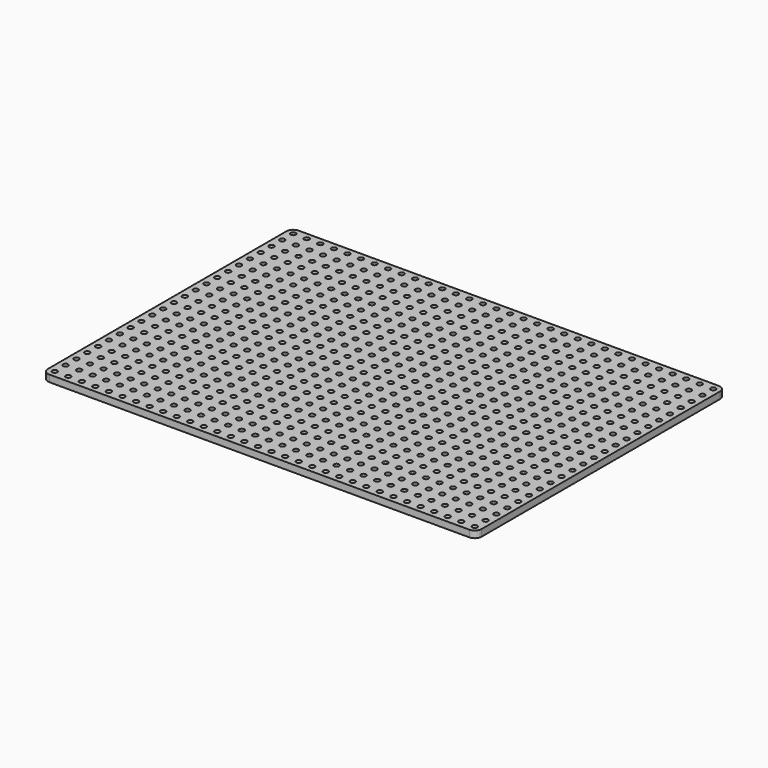
from build123d import *

# Parameters (mm, degrees)
F1_DEPTH = 3.175
F2_R     = 1.1938
F3_DEPTH = 3.176


with BuildPart() as f1:
    # F0 (on Top) → F1 (new body)
    with BuildSketch(Plane.XY):
        with BuildLine():
            ThreePointArc((0, 3.175), (0.929936, 0.929936), (3.175, 0))
            Line((3.175, 0), (200.025, 0))
            ThreePointArc((200.025, 0), (202.270064, 0.929936), (203.2, 3.175))
            Line((203.2, 3.175), (203.2, 142.875))
            ThreePointArc((203.2, 142.875), (202.270064, 145.120064), (200.025, 146.05))
            Line((200.025, 146.05), (3.175, 146.05))
            ThreePointArc((3.175, 146.05), (0.929936, 145.120064), (0, 142.875))
            Line((0, 142.875), (0, 3.175))
        make_face()
    extrude(amount=F1_DEPTH)

    # F2 (on face) → F3 (cut, through all)
    with BuildSketch(Plane.XY.offset(3.175)):
        with Locations((3.175, 3.175)):
            Circle(F2_R)
        with Locations((3.175, 9.525)):
            Circle(F2_R)
        with Locations((3.175, 15.875)):
            Circle(F2_R)
        with Locations((3.175, 22.225)):
            Circle(F2_R)
        with Locations((3.175, 28.575)):
            Circle(F2_R)
        with Locations((3.175, 34.925)):
            Circle(F2_R)
        with Locations((3.175, 41.275)):
            Circle(F2_R)
        with Locations((3.175, 47.625)):
            Circle(F2_R)
        with Locations((3.175, 53.975)):
            Circle(F2_R)
        with Locations((3.175, 60.325)):
            Circle(F2_R)
        with Locations((3.175, 66.675)):
            Circle(F2_R)
        with Locations((3.175, 73.025)):
            Circle(F2_R)
        with Locations((3.175, 79.375)):
            Circle(F2_R)
        with Locations((3.175, 85.725)):
            Circle(F2_R)
        with Locations((3.175, 92.075)):
            Circle(F2_R)
        with Locations((3.175, 98.425)):
            Circle(F2_R)
        with Locations((3.175, 104.775)):
            Circle(F2_R)
        with Locations((3.175, 111.125)):
            Circle(F2_R)
        with Locations((3.175, 117.475)):
            Circle(F2_R)
        with Locations((3.175, 123.825)):
            Circle(F2_R)
        with Locations((3.175, 130.175)):
            Circle(F2_R)
        with Locations((3.175, 136.525)):
            Circle(F2_R)
        with Locations((3.175, 142.875)):
            Circle(F2_R)
        with Locations((9.525, 3.175)):
            Circle(F2_R)
        with Locations((9.525, 9.525)):
            Circle(F2_R)
        with Locations((9.525, 15.875)):
            Circle(F2_R)
        with Locations((9.525, 22.225)):
            Circle(F2_R)
        with Locations((9.525, 28.575)):
            Circle(F2_R)
        with Locations((9.525, 34.925)):
            Circle(F2_R)
        with Locations((9.525, 41.275)):
            Circle(F2_R)
        with Locations((9.525, 47.625)):
            Circle(F2_R)
        with Locations((9.525, 53.975)):
            Circle(F2_R)
        with Locations((9.525, 60.325)):
            Circle(F2_R)
        with Locations((9.525, 66.675)):
            Circle(F2_R)
        with Locations((9.525, 73.025)):
            Circle(F2_R)
        with Locations((9.525, 79.375)):
            Circle(F2_R)
        with Locations((9.525, 85.725)):
            Circle(F2_R)
        with Locations((9.525, 92.075)):
            Circle(F2_R)
        with Locations((9.525, 98.425)):
            Circle(F2_R)
        with Locations((9.525, 104.775)):
            Circle(F2_R)
        with Locations((9.525, 111.125)):
            Circle(F2_R)
        with Locations((9.525, 117.475)):
            Circle(F2_R)
        with Locations((9.525, 123.825)):
            Circle(F2_R)
        with Locations((9.525, 130.175)):
            Circle(F2_R)
        with Locations((9.525, 136.525)):
            Circle(F2_R)
        with Locations((9.525, 142.875)):
            Circle(F2_R)
        with Locations((15.875, 3.175)):
            Circle(F2_R)
        with Locations((15.875, 9.525)):
            Circle(F2_R)
        with Locations((15.875, 15.875)):
            Circle(F2_R)
        with Locations((15.875, 22.225)):
            Circle(F2_R)
        with Locations((15.875, 28.575)):
            Circle(F2_R)
        with Locations((15.875, 34.925)):
            Circle(F2_R)
        with Locations((15.875, 41.275)):
            Circle(F2_R)
        with Locations((15.875, 47.625)):
            Circle(F2_R)
        with Locations((15.875, 53.975)):
            Circle(F2_R)
        with Locations((15.875, 60.325)):
            Circle(F2_R)
        with Locations((15.875, 66.675)):
            Circle(F2_R)
        with Locations((15.875, 73.025)):
            Circle(F2_R)
        with Locations((15.875, 79.375)):
            Circle(F2_R)
        with Locations((15.875, 85.725)):
            Circle(F2_R)
        with Locations((15.875, 92.075)):
            Circle(F2_R)
        with Locations((15.875, 98.425)):
            Circle(F2_R)
        with Locations((15.875, 104.775)):
            Circle(F2_R)
        with Locations((15.875, 111.125)):
            Circle(F2_R)
        with Locations((15.875, 117.475)):
            Circle(F2_R)
        with Locations((15.875, 123.825)):
            Circle(F2_R)
        with Locations((15.875, 130.175)):
            Circle(F2_R)
        with Locations((15.875, 136.525)):
            Circle(F2_R)
        with Locations((15.875, 142.875)):
            Circle(F2_R)
        with Locations((22.225, 3.175)):
            Circle(F2_R)
        with Locations((22.225, 9.525)):
            Circle(F2_R)
        with Locations((22.225, 15.875)):
            Circle(F2_R)
        with Locations((22.225, 22.225)):
            Circle(F2_R)
        with Locations((22.225, 28.575)):
            Circle(F2_R)
        with Locations((22.225, 34.925)):
            Circle(F2_R)
        with Locations((22.225, 41.275)):
            Circle(F2_R)
        with Locations((22.225, 47.625)):
            Circle(F2_R)
        with Locations((22.225, 53.975)):
            Circle(F2_R)
        with Locations((22.225, 60.325)):
            Circle(F2_R)
        with Locations((22.225, 66.675)):
            Circle(F2_R)
        with Locations((22.225, 73.025)):
            Circle(F2_R)
        with Locations((22.225, 79.375)):
            Circle(F2_R)
        with Locations((22.225, 85.725)):
            Circle(F2_R)
        with Locations((22.225, 92.075)):
            Circle(F2_R)
        with Locations((22.225, 98.425)):
            Circle(F2_R)
        with Locations((22.225, 104.775)):
            Circle(F2_R)
        with Locations((22.225, 111.125)):
            Circle(F2_R)
        with Locations((22.225, 117.475)):
            Circle(F2_R)
        with Locations((22.225, 123.825)):
            Circle(F2_R)
        with Locations((22.225, 130.175)):
            Circle(F2_R)
        with Locations((22.225, 136.525)):
            Circle(F2_R)
        with Locations((22.225, 142.875)):
            Circle(F2_R)
        with Locations((28.575, 3.175)):
            Circle(F2_R)
        with Locations((28.575, 9.525)):
            Circle(F2_R)
        with Locations((28.575, 15.875)):
            Circle(F2_R)
        with Locations((28.575, 22.225)):
            Circle(F2_R)
        with Locations((28.575, 28.575)):
            Circle(F2_R)
        with Locations((28.575, 34.925)):
            Circle(F2_R)
        with Locations((28.575, 41.275)):
            Circle(F2_R)
        with Locations((28.575, 47.625)):
            Circle(F2_R)
        with Locations((28.575, 53.975)):
            Circle(F2_R)
        with Locations((28.575, 60.325)):
            Circle(F2_R)
        with Locations((28.575, 66.675)):
            Circle(F2_R)
        with Locations((28.575, 73.025)):
            Circle(F2_R)
        with Locations((28.575, 79.375)):
            Circle(F2_R)
        with Locations((28.575, 85.725)):
            Circle(F2_R)
        with Locations((28.575, 92.075)):
            Circle(F2_R)
        with Locations((28.575, 98.425)):
            Circle(F2_R)
        with Locations((28.575, 104.775)):
            Circle(F2_R)
        with Locations((28.575, 111.125)):
            Circle(F2_R)
        with Locations((28.575, 117.475)):
            Circle(F2_R)
        with Locations((28.575, 123.825)):
            Circle(F2_R)
        with Locations((28.575, 130.175)):
            Circle(F2_R)
        with Locations((28.575, 136.525)):
            Circle(F2_R)
        with Locations((28.575, 142.875)):
            Circle(F2_R)
        with Locations((34.925, 3.175)):
            Circle(F2_R)
        with Locations((34.925, 9.525)):
            Circle(F2_R)
        with Locations((34.925, 15.875)):
            Circle(F2_R)
        with Locations((34.925, 22.225)):
            Circle(F2_R)
        with Locations((34.925, 28.575)):
            Circle(F2_R)
        with Locations((34.925, 34.925)):
            Circle(F2_R)
        with Locations((34.925, 41.275)):
            Circle(F2_R)
        with Locations((34.925, 47.625)):
            Circle(F2_R)
        with Locations((34.925, 53.975)):
            Circle(F2_R)
        with Locations((34.925, 60.325)):
            Circle(F2_R)
        with Locations((34.925, 66.675)):
            Circle(F2_R)
        with Locations((34.925, 73.025)):
            Circle(F2_R)
        with Locations((34.925, 79.375)):
            Circle(F2_R)
        with Locations((34.925, 85.725)):
            Circle(F2_R)
        with Locations((34.925, 92.075)):
            Circle(F2_R)
        with Locations((34.925, 98.425)):
            Circle(F2_R)
        with Locations((34.925, 104.775)):
            Circle(F2_R)
        with Locations((34.925, 111.125)):
            Circle(F2_R)
        with Locations((34.925, 117.475)):
            Circle(F2_R)
        with Locations((34.925, 123.825)):
            Circle(F2_R)
        with Locations((34.925, 130.175)):
            Circle(F2_R)
        with Locations((34.925, 136.525)):
            Circle(F2_R)
        with Locations((34.925, 142.875)):
            Circle(F2_R)
        with Locations((41.275, 3.175)):
            Circle(F2_R)
        with Locations((41.275, 9.525)):
            Circle(F2_R)
        with Locations((41.275, 15.875)):
            Circle(F2_R)
        with Locations((41.275, 22.225)):
            Circle(F2_R)
        with Locations((41.275, 28.575)):
            Circle(F2_R)
        with Locations((41.275, 34.925)):
            Circle(F2_R)
        with Locations((41.275, 41.275)):
            Circle(F2_R)
        with Locations((41.275, 47.625)):
            Circle(F2_R)
        with Locations((41.275, 53.975)):
            Circle(F2_R)
        with Locations((41.275, 60.325)):
            Circle(F2_R)
        with Locations((41.275, 66.675)):
            Circle(F2_R)
        with Locations((41.275, 73.025)):
            Circle(F2_R)
        with Locations((41.275, 79.375)):
            Circle(F2_R)
        with Locations((41.275, 85.725)):
            Circle(F2_R)
        with Locations((41.275, 92.075)):
            Circle(F2_R)
        with Locations((41.275, 98.425)):
            Circle(F2_R)
        with Locations((41.275, 104.775)):
            Circle(F2_R)
        with Locations((41.275, 111.125)):
            Circle(F2_R)
        with Locations((41.275, 117.475)):
            Circle(F2_R)
        with Locations((41.275, 123.825)):
            Circle(F2_R)
        with Locations((41.275, 130.175)):
            Circle(F2_R)
        with Locations((41.275, 136.525)):
            Circle(F2_R)
        with Locations((41.275, 142.875)):
            Circle(F2_R)
        with Locations((47.625, 3.175)):
            Circle(F2_R)
        with Locations((47.625, 9.525)):
            Circle(F2_R)
        with Locations((47.625, 15.875)):
            Circle(F2_R)
        with Locations((47.625, 22.225)):
            Circle(F2_R)
        with Locations((47.625, 28.575)):
            Circle(F2_R)
        with Locations((47.625, 34.925)):
            Circle(F2_R)
        with Locations((47.625, 41.275)):
            Circle(F2_R)
        with Locations((47.625, 47.625)):
            Circle(F2_R)
        with Locations((47.625, 53.975)):
            Circle(F2_R)
        with Locations((47.625, 60.325)):
            Circle(F2_R)
        with Locations((47.625, 66.675)):
            Circle(F2_R)
        with Locations((47.625, 73.025)):
            Circle(F2_R)
        with Locations((47.625, 79.375)):
            Circle(F2_R)
        with Locations((47.625, 85.725)):
            Circle(F2_R)
        with Locations((47.625, 92.075)):
            Circle(F2_R)
        with Locations((47.625, 98.425)):
            Circle(F2_R)
        with Locations((47.625, 104.775)):
            Circle(F2_R)
        with Locations((47.625, 111.125)):
            Circle(F2_R)
        with Locations((47.625, 117.475)):
            Circle(F2_R)
        with Locations((47.625, 123.825)):
            Circle(F2_R)
        with Locations((47.625, 130.175)):
            Circle(F2_R)
        with Locations((47.625, 136.525)):
            Circle(F2_R)
        with Locations((47.625, 142.875)):
            Circle(F2_R)
        with Locations((53.975, 3.175)):
            Circle(F2_R)
        with Locations((53.975, 9.525)):
            Circle(F2_R)
        with Locations((53.975, 15.875)):
            Circle(F2_R)
        with Locations((53.975, 22.225)):
            Circle(F2_R)
        with Locations((53.975, 28.575)):
            Circle(F2_R)
        with Locations((53.975, 34.925)):
            Circle(F2_R)
        with Locations((53.975, 41.275)):
            Circle(F2_R)
        with Locations((53.975, 47.625)):
            Circle(F2_R)
        with Locations((53.975, 53.975)):
            Circle(F2_R)
        with Locations((53.975, 60.325)):
            Circle(F2_R)
        with Locations((53.975, 66.675)):
            Circle(F2_R)
        with Locations((53.975, 73.025)):
            Circle(F2_R)
        with Locations((53.975, 79.375)):
            Circle(F2_R)
        with Locations((53.975, 85.725)):
            Circle(F2_R)
        with Locations((53.975, 92.075)):
            Circle(F2_R)
        with Locations((53.975, 98.425)):
            Circle(F2_R)
        with Locations((53.975, 104.775)):
            Circle(F2_R)
        with Locations((53.975, 111.125)):
            Circle(F2_R)
        with Locations((53.975, 117.475)):
            Circle(F2_R)
        with Locations((53.975, 123.825)):
            Circle(F2_R)
        with Locations((53.975, 130.175)):
            Circle(F2_R)
        with Locations((53.975, 136.525)):
            Circle(F2_R)
        with Locations((53.975, 142.875)):
            Circle(F2_R)
        with Locations((60.325, 3.175)):
            Circle(F2_R)
        with Locations((60.325, 9.525)):
            Circle(F2_R)
        with Locations((60.325, 15.875)):
            Circle(F2_R)
        with Locations((60.325, 22.225)):
            Circle(F2_R)
        with Locations((60.325, 28.575)):
            Circle(F2_R)
        with Locations((60.325, 34.925)):
            Circle(F2_R)
        with Locations((60.325, 41.275)):
            Circle(F2_R)
        with Locations((60.325, 47.625)):
            Circle(F2_R)
        with Locations((60.325, 53.975)):
            Circle(F2_R)
        with Locations((60.325, 60.325)):
            Circle(F2_R)
        with Locations((60.325, 66.675)):
            Circle(F2_R)
        with Locations((60.325, 73.025)):
            Circle(F2_R)
        with Locations((60.325, 79.375)):
            Circle(F2_R)
        with Locations((60.325, 85.725)):
            Circle(F2_R)
        with Locations((60.325, 92.075)):
            Circle(F2_R)
        with Locations((60.325, 98.425)):
            Circle(F2_R)
        with Locations((60.325, 104.775)):
            Circle(F2_R)
        with Locations((60.325, 111.125)):
            Circle(F2_R)
        with Locations((60.325, 117.475)):
            Circle(F2_R)
        with Locations((60.325, 123.825)):
            Circle(F2_R)
        with Locations((60.325, 130.175)):
            Circle(F2_R)
        with Locations((60.325, 136.525)):
            Circle(F2_R)
        with Locations((60.325, 142.875)):
            Circle(F2_R)
        with Locations((66.675, 3.175)):
            Circle(F2_R)
        with Locations((66.675, 9.525)):
            Circle(F2_R)
        with Locations((66.675, 15.875)):
            Circle(F2_R)
        with Locations((66.675, 22.225)):
            Circle(F2_R)
        with Locations((66.675, 28.575)):
            Circle(F2_R)
        with Locations((66.675, 34.925)):
            Circle(F2_R)
        with Locations((66.675, 41.275)):
            Circle(F2_R)
        with Locations((66.675, 47.625)):
            Circle(F2_R)
        with Locations((66.675, 53.975)):
            Circle(F2_R)
        with Locations((66.675, 60.325)):
            Circle(F2_R)
        with Locations((66.675, 66.675)):
            Circle(F2_R)
        with Locations((66.675, 73.025)):
            Circle(F2_R)
        with Locations((66.675, 79.375)):
            Circle(F2_R)
        with Locations((66.675, 85.725)):
            Circle(F2_R)
        with Locations((66.675, 92.075)):
            Circle(F2_R)
        with Locations((66.675, 98.425)):
            Circle(F2_R)
        with Locations((66.675, 104.775)):
            Circle(F2_R)
        with Locations((66.675, 111.125)):
            Circle(F2_R)
        with Locations((66.675, 117.475)):
            Circle(F2_R)
        with Locations((66.675, 123.825)):
            Circle(F2_R)
        with Locations((66.675, 130.175)):
            Circle(F2_R)
        with Locations((66.675, 136.525)):
            Circle(F2_R)
        with Locations((66.675, 142.875)):
            Circle(F2_R)
        with Locations((73.025, 3.175)):
            Circle(F2_R)
        with Locations((73.025, 9.525)):
            Circle(F2_R)
        with Locations((73.025, 15.875)):
            Circle(F2_R)
        with Locations((73.025, 22.225)):
            Circle(F2_R)
        with Locations((73.025, 28.575)):
            Circle(F2_R)
        with Locations((73.025, 34.925)):
            Circle(F2_R)
        with Locations((73.025, 41.275)):
            Circle(F2_R)
        with Locations((73.025, 47.625)):
            Circle(F2_R)
        with Locations((73.025, 53.975)):
            Circle(F2_R)
        with Locations((73.025, 60.325)):
            Circle(F2_R)
        with Locations((73.025, 66.675)):
            Circle(F2_R)
        with Locations((73.025, 73.025)):
            Circle(F2_R)
        with Locations((73.025, 79.375)):
            Circle(F2_R)
        with Locations((73.025, 85.725)):
            Circle(F2_R)
        with Locations((73.025, 92.075)):
            Circle(F2_R)
        with Locations((73.025, 98.425)):
            Circle(F2_R)
        with Locations((73.025, 104.775)):
            Circle(F2_R)
        with Locations((73.025, 111.125)):
            Circle(F2_R)
        with Locations((73.025, 117.475)):
            Circle(F2_R)
        with Locations((73.025, 123.825)):
            Circle(F2_R)
        with Locations((73.025, 130.175)):
            Circle(F2_R)
        with Locations((73.025, 136.525)):
            Circle(F2_R)
        with Locations((73.025, 142.875)):
            Circle(F2_R)
        with Locations((79.375, 3.175)):
            Circle(F2_R)
        with Locations((79.375, 9.525)):
            Circle(F2_R)
        with Locations((79.375, 15.875)):
            Circle(F2_R)
        with Locations((79.375, 22.225)):
            Circle(F2_R)
        with Locations((79.375, 28.575)):
            Circle(F2_R)
        with Locations((79.375, 34.925)):
            Circle(F2_R)
        with Locations((79.375, 41.275)):
            Circle(F2_R)
        with Locations((79.375, 47.625)):
            Circle(F2_R)
        with Locations((79.375, 53.975)):
            Circle(F2_R)
        with Locations((79.375, 60.325)):
            Circle(F2_R)
        with Locations((79.375, 66.675)):
            Circle(F2_R)
        with Locations((79.375, 73.025)):
            Circle(F2_R)
        with Locations((79.375, 79.375)):
            Circle(F2_R)
        with Locations((79.375, 85.725)):
            Circle(F2_R)
        with Locations((79.375, 92.075)):
            Circle(F2_R)
        with Locations((79.375, 98.425)):
            Circle(F2_R)
        with Locations((79.375, 104.775)):
            Circle(F2_R)
        with Locations((79.375, 111.125)):
            Circle(F2_R)
        with Locations((79.375, 117.475)):
            Circle(F2_R)
        with Locations((79.375, 123.825)):
            Circle(F2_R)
        with Locations((79.375, 130.175)):
            Circle(F2_R)
        with Locations((79.375, 136.525)):
            Circle(F2_R)
        with Locations((79.375, 142.875)):
            Circle(F2_R)
        with Locations((85.725, 3.175)):
            Circle(F2_R)
        with Locations((85.725, 9.525)):
            Circle(F2_R)
        with Locations((85.725, 15.875)):
            Circle(F2_R)
        with Locations((85.725, 22.225)):
            Circle(F2_R)
        with Locations((85.725, 28.575)):
            Circle(F2_R)
        with Locations((85.725, 34.925)):
            Circle(F2_R)
        with Locations((85.725, 41.275)):
            Circle(F2_R)
        with Locations((85.725, 47.625)):
            Circle(F2_R)
        with Locations((85.725, 53.975)):
            Circle(F2_R)
        with Locations((85.725, 60.325)):
            Circle(F2_R)
        with Locations((85.725, 66.675)):
            Circle(F2_R)
        with Locations((85.725, 73.025)):
            Circle(F2_R)
        with Locations((85.725, 79.375)):
            Circle(F2_R)
        with Locations((85.725, 85.725)):
            Circle(F2_R)
        with Locations((85.725, 92.075)):
            Circle(F2_R)
        with Locations((85.725, 98.425)):
            Circle(F2_R)
        with Locations((85.725, 104.775)):
            Circle(F2_R)
        with Locations((85.725, 111.125)):
            Circle(F2_R)
        with Locations((85.725, 117.475)):
            Circle(F2_R)
        with Locations((85.725, 123.825)):
            Circle(F2_R)
        with Locations((85.725, 130.175)):
            Circle(F2_R)
        with Locations((85.725, 136.525)):
            Circle(F2_R)
        with Locations((85.725, 142.875)):
            Circle(F2_R)
        with Locations((92.075, 3.175)):
            Circle(F2_R)
        with Locations((92.075, 9.525)):
            Circle(F2_R)
        with Locations((92.075, 15.875)):
            Circle(F2_R)
        with Locations((92.075, 22.225)):
            Circle(F2_R)
        with Locations((92.075, 28.575)):
            Circle(F2_R)
        with Locations((92.075, 34.925)):
            Circle(F2_R)
        with Locations((92.075, 41.275)):
            Circle(F2_R)
        with Locations((92.075, 47.625)):
            Circle(F2_R)
        with Locations((92.075, 53.975)):
            Circle(F2_R)
        with Locations((92.075, 60.325)):
            Circle(F2_R)
        with Locations((92.075, 66.675)):
            Circle(F2_R)
        with Locations((92.075, 73.025)):
            Circle(F2_R)
        with Locations((92.075, 79.375)):
            Circle(F2_R)
        with Locations((92.075, 85.725)):
            Circle(F2_R)
        with Locations((92.075, 92.075)):
            Circle(F2_R)
        with Locations((92.075, 98.425)):
            Circle(F2_R)
        with Locations((92.075, 104.775)):
            Circle(F2_R)
        with Locations((92.075, 111.125)):
            Circle(F2_R)
        with Locations((92.075, 117.475)):
            Circle(F2_R)
        with Locations((92.075, 123.825)):
            Circle(F2_R)
        with Locations((92.075, 130.175)):
            Circle(F2_R)
        with Locations((92.075, 136.525)):
            Circle(F2_R)
        with Locations((92.075, 142.875)):
            Circle(F2_R)
        with Locations((98.425, 3.175)):
            Circle(F2_R)
        with Locations((98.425, 9.525)):
            Circle(F2_R)
        with Locations((98.425, 15.875)):
            Circle(F2_R)
        with Locations((98.425, 22.225)):
            Circle(F2_R)
        with Locations((98.425, 28.575)):
            Circle(F2_R)
        with Locations((98.425, 34.925)):
            Circle(F2_R)
        with Locations((98.425, 41.275)):
            Circle(F2_R)
        with Locations((98.425, 47.625)):
            Circle(F2_R)
        with Locations((98.425, 53.975)):
            Circle(F2_R)
        with Locations((98.425, 60.325)):
            Circle(F2_R)
        with Locations((98.425, 66.675)):
            Circle(F2_R)
        with Locations((98.425, 73.025)):
            Circle(F2_R)
        with Locations((98.425, 79.375)):
            Circle(F2_R)
        with Locations((98.425, 85.725)):
            Circle(F2_R)
        with Locations((98.425, 92.075)):
            Circle(F2_R)
        with Locations((98.425, 98.425)):
            Circle(F2_R)
        with Locations((98.425, 104.775)):
            Circle(F2_R)
        with Locations((98.425, 111.125)):
            Circle(F2_R)
        with Locations((98.425, 117.475)):
            Circle(F2_R)
        with Locations((98.425, 123.825)):
            Circle(F2_R)
        with Locations((98.425, 130.175)):
            Circle(F2_R)
        with Locations((98.425, 136.525)):
            Circle(F2_R)
        with Locations((98.425, 142.875)):
            Circle(F2_R)
        with Locations((104.775, 3.175)):
            Circle(F2_R)
        with Locations((104.775, 9.525)):
            Circle(F2_R)
        with Locations((104.775, 15.875)):
            Circle(F2_R)
        with Locations((104.775, 22.225)):
            Circle(F2_R)
        with Locations((104.775, 28.575)):
            Circle(F2_R)
        with Locations((104.775, 34.925)):
            Circle(F2_R)
        with Locations((104.775, 41.275)):
            Circle(F2_R)
        with Locations((104.775, 47.625)):
            Circle(F2_R)
        with Locations((104.775, 53.975)):
            Circle(F2_R)
        with Locations((104.775, 60.325)):
            Circle(F2_R)
        with Locations((104.775, 66.675)):
            Circle(F2_R)
        with Locations((104.775, 73.025)):
            Circle(F2_R)
        with Locations((104.775, 79.375)):
            Circle(F2_R)
        with Locations((104.775, 85.725)):
            Circle(F2_R)
        with Locations((104.775, 92.075)):
            Circle(F2_R)
        with Locations((104.775, 98.425)):
            Circle(F2_R)
        with Locations((104.775, 104.775)):
            Circle(F2_R)
        with Locations((104.775, 111.125)):
            Circle(F2_R)
        with Locations((104.775, 117.475)):
            Circle(F2_R)
        with Locations((104.775, 123.825)):
            Circle(F2_R)
        with Locations((104.775, 130.175)):
            Circle(F2_R)
        with Locations((104.775, 136.525)):
            Circle(F2_R)
        with Locations((104.775, 142.875)):
            Circle(F2_R)
        with Locations((111.125, 3.175)):
            Circle(F2_R)
        with Locations((111.125, 9.525)):
            Circle(F2_R)
        with Locations((111.125, 15.875)):
            Circle(F2_R)
        with Locations((111.125, 22.225)):
            Circle(F2_R)
        with Locations((111.125, 28.575)):
            Circle(F2_R)
        with Locations((111.125, 34.925)):
            Circle(F2_R)
        with Locations((111.125, 41.275)):
            Circle(F2_R)
        with Locations((111.125, 47.625)):
            Circle(F2_R)
        with Locations((111.125, 53.975)):
            Circle(F2_R)
        with Locations((111.125, 60.325)):
            Circle(F2_R)
        with Locations((111.125, 66.675)):
            Circle(F2_R)
        with Locations((111.125, 73.025)):
            Circle(F2_R)
        with Locations((111.125, 79.375)):
            Circle(F2_R)
        with Locations((111.125, 85.725)):
            Circle(F2_R)
        with Locations((111.125, 92.075)):
            Circle(F2_R)
        with Locations((111.125, 98.425)):
            Circle(F2_R)
        with Locations((111.125, 104.775)):
            Circle(F2_R)
        with Locations((111.125, 111.125)):
            Circle(F2_R)
        with Locations((111.125, 117.475)):
            Circle(F2_R)
        with Locations((111.125, 123.825)):
            Circle(F2_R)
        with Locations((111.125, 130.175)):
            Circle(F2_R)
        with Locations((111.125, 136.525)):
            Circle(F2_R)
        with Locations((111.125, 142.875)):
            Circle(F2_R)
        with Locations((117.475, 3.175)):
            Circle(F2_R)
        with Locations((117.475, 9.525)):
            Circle(F2_R)
        with Locations((117.475, 15.875)):
            Circle(F2_R)
        with Locations((117.475, 22.225)):
            Circle(F2_R)
        with Locations((117.475, 28.575)):
            Circle(F2_R)
        with Locations((117.475, 34.925)):
            Circle(F2_R)
        with Locations((117.475, 41.275)):
            Circle(F2_R)
        with Locations((117.475, 47.625)):
            Circle(F2_R)
        with Locations((117.475, 53.975)):
            Circle(F2_R)
        with Locations((117.475, 60.325)):
            Circle(F2_R)
        with Locations((117.475, 66.675)):
            Circle(F2_R)
        with Locations((117.475, 73.025)):
            Circle(F2_R)
        with Locations((117.475, 79.375)):
            Circle(F2_R)
        with Locations((117.475, 85.725)):
            Circle(F2_R)
        with Locations((117.475, 92.075)):
            Circle(F2_R)
        with Locations((117.475, 98.425)):
            Circle(F2_R)
        with Locations((117.475, 104.775)):
            Circle(F2_R)
        with Locations((117.475, 111.125)):
            Circle(F2_R)
        with Locations((117.475, 117.475)):
            Circle(F2_R)
        with Locations((117.475, 123.825)):
            Circle(F2_R)
        with Locations((117.475, 130.175)):
            Circle(F2_R)
        with Locations((117.475, 136.525)):
            Circle(F2_R)
        with Locations((117.475, 142.875)):
            Circle(F2_R)
        with Locations((123.825, 3.175)):
            Circle(F2_R)
        with Locations((123.825, 9.525)):
            Circle(F2_R)
        with Locations((123.825, 15.875)):
            Circle(F2_R)
        with Locations((123.825, 22.225)):
            Circle(F2_R)
        with Locations((123.825, 28.575)):
            Circle(F2_R)
        with Locations((123.825, 34.925)):
            Circle(F2_R)
        with Locations((123.825, 41.275)):
            Circle(F2_R)
        with Locations((123.825, 47.625)):
            Circle(F2_R)
        with Locations((123.825, 53.975)):
            Circle(F2_R)
        with Locations((123.825, 60.325)):
            Circle(F2_R)
        with Locations((123.825, 66.675)):
            Circle(F2_R)
        with Locations((123.825, 73.025)):
            Circle(F2_R)
        with Locations((123.825, 79.375)):
            Circle(F2_R)
        with Locations((123.825, 85.725)):
            Circle(F2_R)
        with Locations((123.825, 92.075)):
            Circle(F2_R)
        with Locations((123.825, 98.425)):
            Circle(F2_R)
        with Locations((123.825, 104.775)):
            Circle(F2_R)
        with Locations((123.825, 111.125)):
            Circle(F2_R)
        with Locations((123.825, 117.475)):
            Circle(F2_R)
        with Locations((123.825, 123.825)):
            Circle(F2_R)
        with Locations((123.825, 130.175)):
            Circle(F2_R)
        with Locations((123.825, 136.525)):
            Circle(F2_R)
        with Locations((123.825, 142.875)):
            Circle(F2_R)
        with Locations((130.175, 3.175)):
            Circle(F2_R)
        with Locations((130.175, 9.525)):
            Circle(F2_R)
        with Locations((130.175, 15.875)):
            Circle(F2_R)
        with Locations((130.175, 22.225)):
            Circle(F2_R)
        with Locations((130.175, 28.575)):
            Circle(F2_R)
        with Locations((130.175, 34.925)):
            Circle(F2_R)
        with Locations((130.175, 41.275)):
            Circle(F2_R)
        with Locations((130.175, 47.625)):
            Circle(F2_R)
        with Locations((130.175, 53.975)):
            Circle(F2_R)
        with Locations((130.175, 60.325)):
            Circle(F2_R)
        with Locations((130.175, 66.675)):
            Circle(F2_R)
        with Locations((130.175, 73.025)):
            Circle(F2_R)
        with Locations((130.175, 79.375)):
            Circle(F2_R)
        with Locations((130.175, 85.725)):
            Circle(F2_R)
        with Locations((130.175, 92.075)):
            Circle(F2_R)
        with Locations((130.175, 98.425)):
            Circle(F2_R)
        with Locations((130.175, 104.775)):
            Circle(F2_R)
        with Locations((130.175, 111.125)):
            Circle(F2_R)
        with Locations((130.175, 117.475)):
            Circle(F2_R)
        with Locations((130.175, 123.825)):
            Circle(F2_R)
        with Locations((130.175, 130.175)):
            Circle(F2_R)
        with Locations((130.175, 136.525)):
            Circle(F2_R)
        with Locations((130.175, 142.875)):
            Circle(F2_R)
        with Locations((136.525, 3.175)):
            Circle(F2_R)
        with Locations((136.525, 9.525)):
            Circle(F2_R)
        with Locations((136.525, 15.875)):
            Circle(F2_R)
        with Locations((136.525, 22.225)):
            Circle(F2_R)
        with Locations((136.525, 28.575)):
            Circle(F2_R)
        with Locations((136.525, 34.925)):
            Circle(F2_R)
        with Locations((136.525, 41.275)):
            Circle(F2_R)
        with Locations((136.525, 47.625)):
            Circle(F2_R)
        with Locations((136.525, 53.975)):
            Circle(F2_R)
        with Locations((136.525, 60.325)):
            Circle(F2_R)
        with Locations((136.525, 66.675)):
            Circle(F2_R)
        with Locations((136.525, 73.025)):
            Circle(F2_R)
        with Locations((136.525, 79.375)):
            Circle(F2_R)
        with Locations((136.525, 85.725)):
            Circle(F2_R)
        with Locations((136.525, 92.075)):
            Circle(F2_R)
        with Locations((136.525, 98.425)):
            Circle(F2_R)
        with Locations((136.525, 104.775)):
            Circle(F2_R)
        with Locations((136.525, 111.125)):
            Circle(F2_R)
        with Locations((136.525, 117.475)):
            Circle(F2_R)
        with Locations((136.525, 123.825)):
            Circle(F2_R)
        with Locations((136.525, 130.175)):
            Circle(F2_R)
        with Locations((136.525, 136.525)):
            Circle(F2_R)
        with Locations((136.525, 142.875)):
            Circle(F2_R)
        with Locations((142.875, 3.175)):
            Circle(F2_R)
        with Locations((142.875, 9.525)):
            Circle(F2_R)
        with Locations((142.875, 15.875)):
            Circle(F2_R)
        with Locations((142.875, 22.225)):
            Circle(F2_R)
        with Locations((142.875, 28.575)):
            Circle(F2_R)
        with Locations((142.875, 34.925)):
            Circle(F2_R)
        with Locations((142.875, 41.275)):
            Circle(F2_R)
        with Locations((142.875, 47.625)):
            Circle(F2_R)
        with Locations((142.875, 53.975)):
            Circle(F2_R)
        with Locations((142.875, 60.325)):
            Circle(F2_R)
        with Locations((142.875, 66.675)):
            Circle(F2_R)
        with Locations((142.875, 73.025)):
            Circle(F2_R)
        with Locations((142.875, 79.375)):
            Circle(F2_R)
        with Locations((142.875, 85.725)):
            Circle(F2_R)
        with Locations((142.875, 92.075)):
            Circle(F2_R)
        with Locations((142.875, 98.425)):
            Circle(F2_R)
        with Locations((142.875, 104.775)):
            Circle(F2_R)
        with Locations((142.875, 111.125)):
            Circle(F2_R)
        with Locations((142.875, 117.475)):
            Circle(F2_R)
        with Locations((142.875, 123.825)):
            Circle(F2_R)
        with Locations((142.875, 130.175)):
            Circle(F2_R)
        with Locations((142.875, 136.525)):
            Circle(F2_R)
        with Locations((142.875, 142.875)):
            Circle(F2_R)
        with Locations((149.225, 3.175)):
            Circle(F2_R)
        with Locations((149.225, 9.525)):
            Circle(F2_R)
        with Locations((149.225, 15.875)):
            Circle(F2_R)
        with Locations((149.225, 22.225)):
            Circle(F2_R)
        with Locations((149.225, 28.575)):
            Circle(F2_R)
        with Locations((149.225, 34.925)):
            Circle(F2_R)
        with Locations((149.225, 41.275)):
            Circle(F2_R)
        with Locations((149.225, 47.625)):
            Circle(F2_R)
        with Locations((149.225, 53.975)):
            Circle(F2_R)
        with Locations((149.225, 60.325)):
            Circle(F2_R)
        with Locations((149.225, 66.675)):
            Circle(F2_R)
        with Locations((149.225, 73.025)):
            Circle(F2_R)
        with Locations((149.225, 79.375)):
            Circle(F2_R)
        with Locations((149.225, 85.725)):
            Circle(F2_R)
        with Locations((149.225, 92.075)):
            Circle(F2_R)
        with Locations((149.225, 98.425)):
            Circle(F2_R)
        with Locations((149.225, 104.775)):
            Circle(F2_R)
        with Locations((149.225, 111.125)):
            Circle(F2_R)
        with Locations((149.225, 117.475)):
            Circle(F2_R)
        with Locations((149.225, 123.825)):
            Circle(F2_R)
        with Locations((149.225, 130.175)):
            Circle(F2_R)
        with Locations((149.225, 136.525)):
            Circle(F2_R)
        with Locations((149.225, 142.875)):
            Circle(F2_R)
        with Locations((155.575, 3.175)):
            Circle(F2_R)
        with Locations((155.575, 9.525)):
            Circle(F2_R)
        with Locations((155.575, 15.875)):
            Circle(F2_R)
        with Locations((155.575, 22.225)):
            Circle(F2_R)
        with Locations((155.575, 28.575)):
            Circle(F2_R)
        with Locations((155.575, 34.925)):
            Circle(F2_R)
        with Locations((155.575, 41.275)):
            Circle(F2_R)
        with Locations((155.575, 47.625)):
            Circle(F2_R)
        with Locations((155.575, 53.975)):
            Circle(F2_R)
        with Locations((155.575, 60.325)):
            Circle(F2_R)
        with Locations((155.575, 66.675)):
            Circle(F2_R)
        with Locations((155.575, 73.025)):
            Circle(F2_R)
        with Locations((155.575, 79.375)):
            Circle(F2_R)
        with Locations((155.575, 85.725)):
            Circle(F2_R)
        with Locations((155.575, 92.075)):
            Circle(F2_R)
        with Locations((155.575, 98.425)):
            Circle(F2_R)
        with Locations((155.575, 104.775)):
            Circle(F2_R)
        with Locations((155.575, 111.125)):
            Circle(F2_R)
        with Locations((155.575, 117.475)):
            Circle(F2_R)
        with Locations((155.575, 123.825)):
            Circle(F2_R)
        with Locations((155.575, 130.175)):
            Circle(F2_R)
        with Locations((155.575, 136.525)):
            Circle(F2_R)
        with Locations((155.575, 142.875)):
            Circle(F2_R)
        with Locations((161.925, 3.175)):
            Circle(F2_R)
        with Locations((161.925, 9.525)):
            Circle(F2_R)
        with Locations((161.925, 15.875)):
            Circle(F2_R)
        with Locations((161.925, 22.225)):
            Circle(F2_R)
        with Locations((161.925, 28.575)):
            Circle(F2_R)
        with Locations((161.925, 34.925)):
            Circle(F2_R)
        with Locations((161.925, 41.275)):
            Circle(F2_R)
        with Locations((161.925, 47.625)):
            Circle(F2_R)
        with Locations((161.925, 53.975)):
            Circle(F2_R)
        with Locations((161.925, 60.325)):
            Circle(F2_R)
        with Locations((161.925, 66.675)):
            Circle(F2_R)
        with Locations((161.925, 73.025)):
            Circle(F2_R)
        with Locations((161.925, 79.375)):
            Circle(F2_R)
        with Locations((161.925, 85.725)):
            Circle(F2_R)
        with Locations((161.925, 92.075)):
            Circle(F2_R)
        with Locations((161.925, 98.425)):
            Circle(F2_R)
        with Locations((161.925, 104.775)):
            Circle(F2_R)
        with Locations((161.925, 111.125)):
            Circle(F2_R)
        with Locations((161.925, 117.475)):
            Circle(F2_R)
        with Locations((161.925, 123.825)):
            Circle(F2_R)
        with Locations((161.925, 130.175)):
            Circle(F2_R)
        with Locations((161.925, 136.525)):
            Circle(F2_R)
        with Locations((161.925, 142.875)):
            Circle(F2_R)
        with Locations((168.275, 3.175)):
            Circle(F2_R)
        with Locations((168.275, 9.525)):
            Circle(F2_R)
        with Locations((168.275, 15.875)):
            Circle(F2_R)
        with Locations((168.275, 22.225)):
            Circle(F2_R)
        with Locations((168.275, 28.575)):
            Circle(F2_R)
        with Locations((168.275, 34.925)):
            Circle(F2_R)
        with Locations((168.275, 41.275)):
            Circle(F2_R)
        with Locations((168.275, 47.625)):
            Circle(F2_R)
        with Locations((168.275, 53.975)):
            Circle(F2_R)
        with Locations((168.275, 60.325)):
            Circle(F2_R)
        with Locations((168.275, 66.675)):
            Circle(F2_R)
        with Locations((168.275, 73.025)):
            Circle(F2_R)
        with Locations((168.275, 79.375)):
            Circle(F2_R)
        with Locations((168.275, 85.725)):
            Circle(F2_R)
        with Locations((168.275, 92.075)):
            Circle(F2_R)
        with Locations((168.275, 98.425)):
            Circle(F2_R)
        with Locations((168.275, 104.775)):
            Circle(F2_R)
        with Locations((168.275, 111.125)):
            Circle(F2_R)
        with Locations((168.275, 117.475)):
            Circle(F2_R)
        with Locations((168.275, 123.825)):
            Circle(F2_R)
        with Locations((168.275, 130.175)):
            Circle(F2_R)
        with Locations((168.275, 136.525)):
            Circle(F2_R)
        with Locations((168.275, 142.875)):
            Circle(F2_R)
        with Locations((174.625, 3.175)):
            Circle(F2_R)
        with Locations((174.625, 9.525)):
            Circle(F2_R)
        with Locations((174.625, 15.875)):
            Circle(F2_R)
        with Locations((174.625, 22.225)):
            Circle(F2_R)
        with Locations((174.625, 28.575)):
            Circle(F2_R)
        with Locations((174.625, 34.925)):
            Circle(F2_R)
        with Locations((174.625, 41.275)):
            Circle(F2_R)
        with Locations((174.625, 47.625)):
            Circle(F2_R)
        with Locations((174.625, 53.975)):
            Circle(F2_R)
        with Locations((174.625, 60.325)):
            Circle(F2_R)
        with Locations((174.625, 66.675)):
            Circle(F2_R)
        with Locations((174.625, 73.025)):
            Circle(F2_R)
        with Locations((174.625, 79.375)):
            Circle(F2_R)
        with Locations((174.625, 85.725)):
            Circle(F2_R)
        with Locations((174.625, 92.075)):
            Circle(F2_R)
        with Locations((174.625, 98.425)):
            Circle(F2_R)
        with Locations((174.625, 104.775)):
            Circle(F2_R)
        with Locations((174.625, 111.125)):
            Circle(F2_R)
        with Locations((174.625, 117.475)):
            Circle(F2_R)
        with Locations((174.625, 123.825)):
            Circle(F2_R)
        with Locations((174.625, 130.175)):
            Circle(F2_R)
        with Locations((174.625, 136.525)):
            Circle(F2_R)
        with Locations((174.625, 142.875)):
            Circle(F2_R)
        with Locations((180.975, 3.175)):
            Circle(F2_R)
        with Locations((180.975, 9.525)):
            Circle(F2_R)
        with Locations((180.975, 15.875)):
            Circle(F2_R)
        with Locations((180.975, 22.225)):
            Circle(F2_R)
        with Locations((180.975, 28.575)):
            Circle(F2_R)
        with Locations((180.975, 34.925)):
            Circle(F2_R)
        with Locations((180.975, 41.275)):
            Circle(F2_R)
        with Locations((180.975, 47.625)):
            Circle(F2_R)
        with Locations((180.975, 53.975)):
            Circle(F2_R)
        with Locations((180.975, 60.325)):
            Circle(F2_R)
        with Locations((180.975, 66.675)):
            Circle(F2_R)
        with Locations((180.975, 73.025)):
            Circle(F2_R)
        with Locations((180.975, 79.375)):
            Circle(F2_R)
        with Locations((180.975, 85.725)):
            Circle(F2_R)
        with Locations((180.975, 92.075)):
            Circle(F2_R)
        with Locations((180.975, 98.425)):
            Circle(F2_R)
        with Locations((180.975, 104.775)):
            Circle(F2_R)
        with Locations((180.975, 111.125)):
            Circle(F2_R)
        with Locations((180.975, 117.475)):
            Circle(F2_R)
        with Locations((180.975, 123.825)):
            Circle(F2_R)
        with Locations((180.975, 130.175)):
            Circle(F2_R)
        with Locations((180.975, 136.525)):
            Circle(F2_R)
        with Locations((180.975, 142.875)):
            Circle(F2_R)
        with Locations((187.325, 3.175)):
            Circle(F2_R)
        with Locations((187.325, 9.525)):
            Circle(F2_R)
        with Locations((187.325, 15.875)):
            Circle(F2_R)
        with Locations((187.325, 22.225)):
            Circle(F2_R)
        with Locations((187.325, 28.575)):
            Circle(F2_R)
        with Locations((187.325, 34.925)):
            Circle(F2_R)
        with Locations((187.325, 41.275)):
            Circle(F2_R)
        with Locations((187.325, 47.625)):
            Circle(F2_R)
        with Locations((187.325, 53.975)):
            Circle(F2_R)
        with Locations((187.325, 60.325)):
            Circle(F2_R)
        with Locations((187.325, 66.675)):
            Circle(F2_R)
        with Locations((187.325, 73.025)):
            Circle(F2_R)
        with Locations((187.325, 79.375)):
            Circle(F2_R)
        with Locations((187.325, 85.725)):
            Circle(F2_R)
        with Locations((187.325, 92.075)):
            Circle(F2_R)
        with Locations((187.325, 98.425)):
            Circle(F2_R)
        with Locations((187.325, 104.775)):
            Circle(F2_R)
        with Locations((187.325, 111.125)):
            Circle(F2_R)
        with Locations((187.325, 117.475)):
            Circle(F2_R)
        with Locations((187.325, 123.825)):
            Circle(F2_R)
        with Locations((187.325, 130.175)):
            Circle(F2_R)
        with Locations((187.325, 136.525)):
            Circle(F2_R)
        with Locations((187.325, 142.875)):
            Circle(F2_R)
        with Locations((193.675, 3.175)):
            Circle(F2_R)
        with Locations((193.675, 9.525)):
            Circle(F2_R)
        with Locations((193.675, 15.875)):
            Circle(F2_R)
        with Locations((193.675, 22.225)):
            Circle(F2_R)
        with Locations((193.675, 28.575)):
            Circle(F2_R)
        with Locations((193.675, 34.925)):
            Circle(F2_R)
        with Locations((193.675, 41.275)):
            Circle(F2_R)
        with Locations((193.675, 47.625)):
            Circle(F2_R)
        with Locations((193.675, 53.975)):
            Circle(F2_R)
        with Locations((193.675, 60.325)):
            Circle(F2_R)
        with Locations((193.675, 66.675)):
            Circle(F2_R)
        with Locations((193.675, 73.025)):
            Circle(F2_R)
        with Locations((193.675, 79.375)):
            Circle(F2_R)
        with Locations((193.675, 85.725)):
            Circle(F2_R)
        with Locations((193.675, 92.075)):
            Circle(F2_R)
        with Locations((193.675, 98.425)):
            Circle(F2_R)
        with Locations((193.675, 104.775)):
            Circle(F2_R)
        with Locations((193.675, 111.125)):
            Circle(F2_R)
        with Locations((193.675, 117.475)):
            Circle(F2_R)
        with Locations((193.675, 123.825)):
            Circle(F2_R)
        with Locations((193.675, 130.175)):
            Circle(F2_R)
        with Locations((193.675, 136.525)):
            Circle(F2_R)
        with Locations((193.675, 142.875)):
            Circle(F2_R)
        with Locations((200.025, 3.175)):
            Circle(F2_R)
        with Locations((200.025, 9.525)):
            Circle(F2_R)
        with Locations((200.025, 15.875)):
            Circle(F2_R)
        with Locations((200.025, 22.225)):
            Circle(F2_R)
        with Locations((200.025, 28.575)):
            Circle(F2_R)
        with Locations((200.025, 34.925)):
            Circle(F2_R)
        with Locations((200.025, 41.275)):
            Circle(F2_R)
        with Locations((200.025, 47.625)):
            Circle(F2_R)
        with Locations((200.025, 53.975)):
            Circle(F2_R)
        with Locations((200.025, 60.325)):
            Circle(F2_R)
        with Locations((200.025, 66.675)):
            Circle(F2_R)
        with Locations((200.025, 73.025)):
            Circle(F2_R)
        with Locations((200.025, 79.375)):
            Circle(F2_R)
        with Locations((200.025, 85.725)):
            Circle(F2_R)
        with Locations((200.025, 92.075)):
            Circle(F2_R)
        with Locations((200.025, 98.425)):
            Circle(F2_R)
        with Locations((200.025, 104.775)):
            Circle(F2_R)
        with Locations((200.025, 111.125)):
            Circle(F2_R)
        with Locations((200.025, 117.475)):
            Circle(F2_R)
        with Locations((200.025, 123.825)):
            Circle(F2_R)
        with Locations((200.025, 130.175)):
            Circle(F2_R)
        with Locations((200.025, 136.525)):
            Circle(F2_R)
        with Locations((200.025, 142.875)):
            Circle(F2_R)
    extrude(amount=-F3_DEPTH, mode=Mode.SUBTRACT)


solid = f1.part
